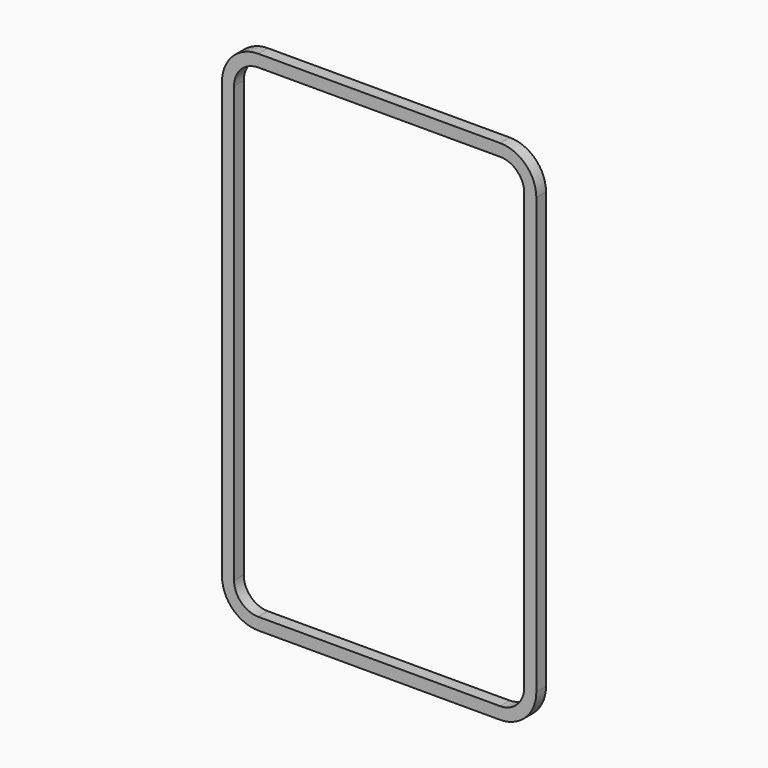
from build123d import *

# Parameters (mm, degrees)
BOX051_W     = 24
BOX051_H     = 5
BOX051_DEPTH = 40
FILLET059_R  = 2
BOX004_W     = 26
BOX004_H     = 1
BOX004_DEPTH = 42
FILLET003_R  = 3


with BuildPart() as fillet059:
    # Box051 → Box051 (new body)
    with BuildSketch(Plane(origin=(90, 4.3, 71), x_dir=(1, 0, 0), z_dir=(0, 0, 1))):
        with Locations((12, 2.5)):
            Rectangle(BOX051_W, BOX051_H)
    extrude(amount=BOX051_DEPTH)

    # Fillet059
    fillet059_edges = [fillet059.edges().sort_by_distance(p)[0] for p in [
        (90, 6.8, 111),
        (90, 6.8, 71),
        (114, 6.8, 111),
        (114, 6.8, 71),
    ]]
    fillet(fillet059_edges, radius=FILLET059_R)


with BuildPart() as fillet059_1:
    # Fillet059 placement: moved
    add(fillet059.part.moved(Location((-3, -2, 0))))


with BuildPart() as cut037:
    # Box004 → Box004 (new body)
    with BuildSketch(Plane(origin=(89, 4.3, 70), x_dir=(1, 0, 0), z_dir=(0, 0, 1))):
        with Locations((13, 0.5)):
            Rectangle(BOX004_W, BOX004_H)
    extrude(amount=BOX004_DEPTH)

    # Fillet003
    fillet003_edges = [cut037.edges().sort_by_distance(p)[0] for p in [
        (89, 4.8, 112),
        (89, 4.8, 70),
        (115, 4.8, 112),
        (115, 4.8, 70),
    ]]
    fillet(fillet003_edges, radius=FILLET003_R)


with BuildPart() as cut037_1:
    # Fillet003 placement: moved
    add(cut037.part.moved(Location((-3, -2, 0))))

    # Cut037: cut Fillet059
    add(fillet059_1.part, mode=Mode.SUBTRACT)


solid = cut037_1.part
